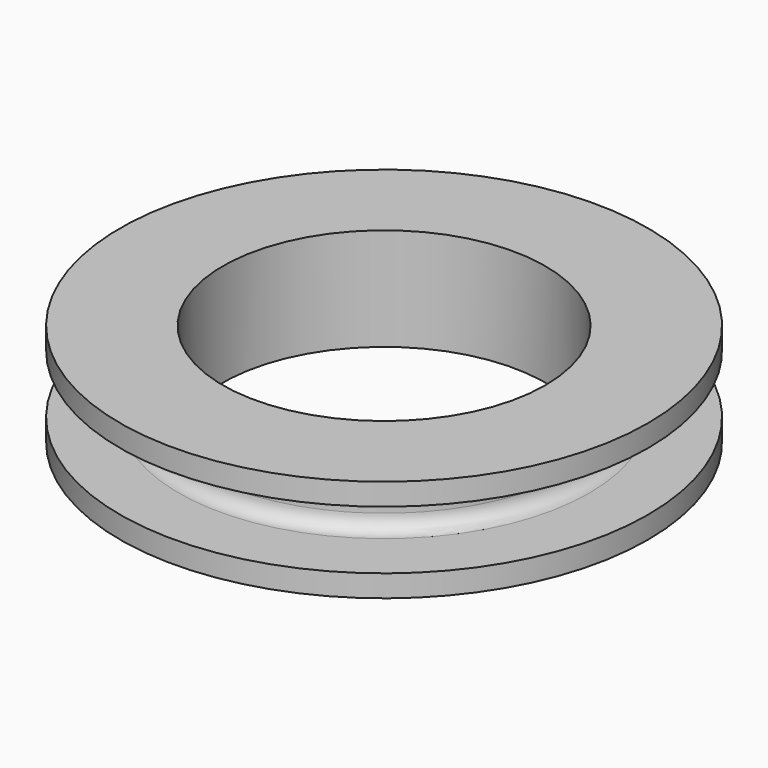
from build123d import *

# Parameters (mm, degrees)
F2_R = 1


with BuildPart() as f1:
    # F0 (on Front) → F1 (revolve)
    with BuildSketch(Plane.XZ):
        Polygon((18, 3.5), (11, 3.5), (11, 0), (11, -3.5), (18, -3.5), (18, -2), (13, -2), (13, 0), (13, 2), (18, 2), align=None)
    revolve(axis=Axis((0, 0, 1.75), (0, 0, 1)))

    # F2
    f2_edges = [f1.edges().sort_by_distance(p)[0] for p in [
        (-13, 0, -2),
        (13, 0, 0),
        (-13, 0, 2),
    ]]
    fillet(f2_edges, radius=F2_R)


solid = f1.part
